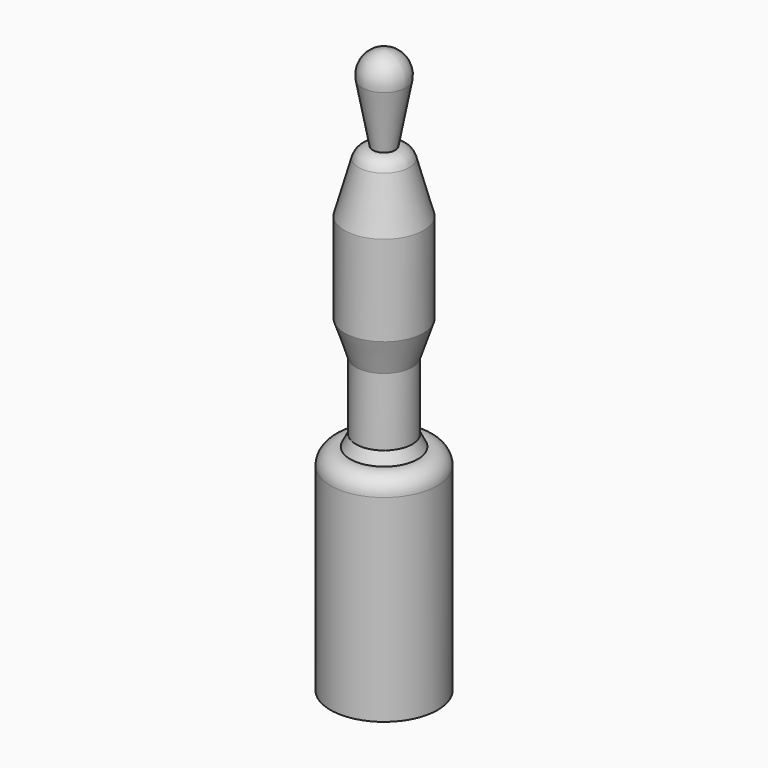
from build123d import *


with BuildPart() as f1:
    # F0 (on Front) → F1 (revolve)
    with BuildSketch(Plane.XZ):
        with BuildLine():
            Line((0, 0), (9.5, 0))
            Line((9.5, 0), (9.5, 35))
            ThreePointArc((9.5, 35), (8.439902, 37.304886), (6, 38))
            Line((6, 38), (5, 40))
            Line((5, 40), (5, 52))
            Line((5, 52), (7, 58))
            Line((7, 58), (7, 74))
            Line((7, 74), (4.5, 83))
            ThreePointArc((4.5, 83), (3.570097, 84.371239), (2, 84.900214))
            Line((2, 84.900214), (3.932277, 95.267063))
            ThreePointArc((3.932277, 95.267063), (3.076666, 98.556194), (0, 100))
            Line((0, 100), (0, 0))
        make_face()
    revolve(axis=Axis((0, 0, 50), (0, 0, 1)))


solid = f1.part
